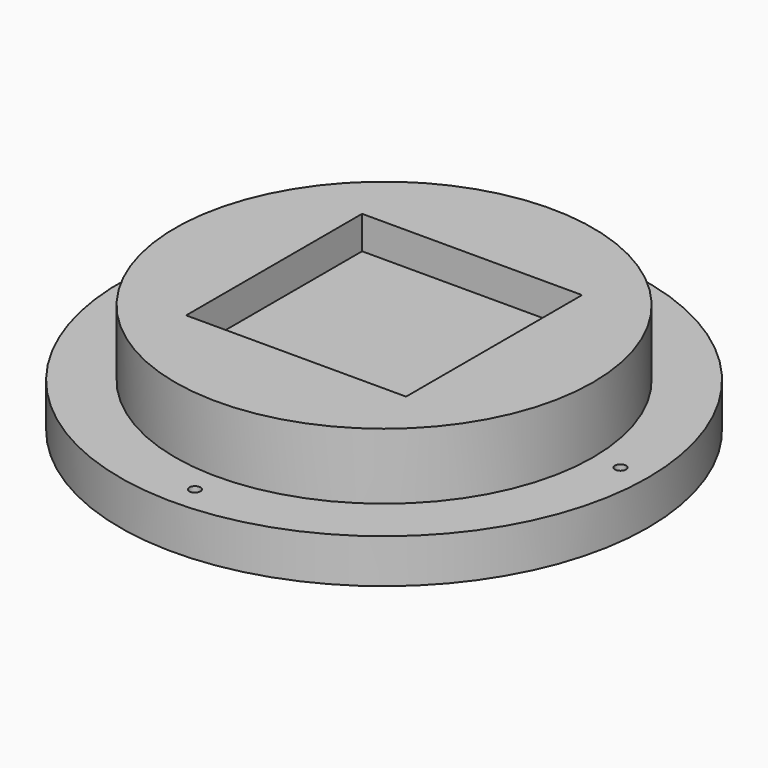
from build123d import *

# Parameters (mm, degrees)
BOX_W             = 20
BOX_H             = 20
BOX_DEPTH         = 20
CIRCLE001_R       = 19
EXTRUDE001_DEPTH  = 10
CYLINDER001_R     = 0.5
CYLINDER001_DEPTH = 10
CYLINDER002_R     = 0.5
CYLINDER002_DEPTH = 10
CYLINDER003_R     = 0.5
CYLINDER003_DEPTH = 10
CYLINDER_R        = 0.5
CYLINDER_DEPTH    = 10
CIRCLE_R          = 24
EXTRUDE_DEPTH     = 4


with BuildPart() as cube:
    # Box → Box (new body)
    with BuildSketch(Plane(origin=(-10, -10, 7), x_dir=(1, 0, 0), z_dir=(0, 0, 1))):
        with Locations((10, 10)):
            Rectangle(BOX_W, BOX_H)
    extrude(amount=BOX_DEPTH)


with BuildPart() as extrude001:
    # Circle001 → Extrude001 (new body)
    with BuildSketch(Plane.XY):
        Circle(CIRCLE001_R)
    extrude(amount=EXTRUDE001_DEPTH)


with BuildPart() as cylinder001:
    # Cylinder001 → Cylinder001 (new body)
    with BuildSketch(Plane(origin=(-21.5, 0, -3), x_dir=(1, 0, 0), z_dir=(0, 0, 1))):
        Circle(CYLINDER001_R)
    extrude(amount=CYLINDER001_DEPTH)


with BuildPart() as cylinder002:
    # Cylinder002 → Cylinder002 (new body)
    with BuildSketch(Plane(origin=(0, 21.5, -3), x_dir=(1, 0, 0), z_dir=(0, 0, 1))):
        Circle(CYLINDER002_R)
    extrude(amount=CYLINDER002_DEPTH)


with BuildPart() as cylinder003:
    # Cylinder003 → Cylinder003 (new body)
    with BuildSketch(Plane(origin=(0, -21.5, -3), x_dir=(1, 0, 0), z_dir=(0, 0, 1))):
        Circle(CYLINDER003_R)
    extrude(amount=CYLINDER003_DEPTH)


with BuildPart() as fusion:
    # Cylinder → Cylinder (new body)
    with BuildSketch(Plane(origin=(21.5, 0, -3), x_dir=(1, 0, 0), z_dir=(0, 0, 1))):
        Circle(CYLINDER_R)
    extrude(amount=CYLINDER_DEPTH)

    # Fusion: union Cylinder001, Cylinder002, Cylinder003
    add(cylinder001.part)
    add(cylinder002.part)
    add(cylinder003.part)


with BuildPart() as cut001:
    # Circle → Extrude (new body)
    with BuildSketch(Plane.XY):
        Circle(CIRCLE_R)
    extrude(amount=EXTRUDE_DEPTH)

    # Cut: cut Fusion
    add(fusion.part, mode=Mode.SUBTRACT)

    # Fusion001: union Extrude001
    add(extrude001.part)

    # Cut001: cut Cube
    add(cube.part, mode=Mode.SUBTRACT)


solid = cut001.part
